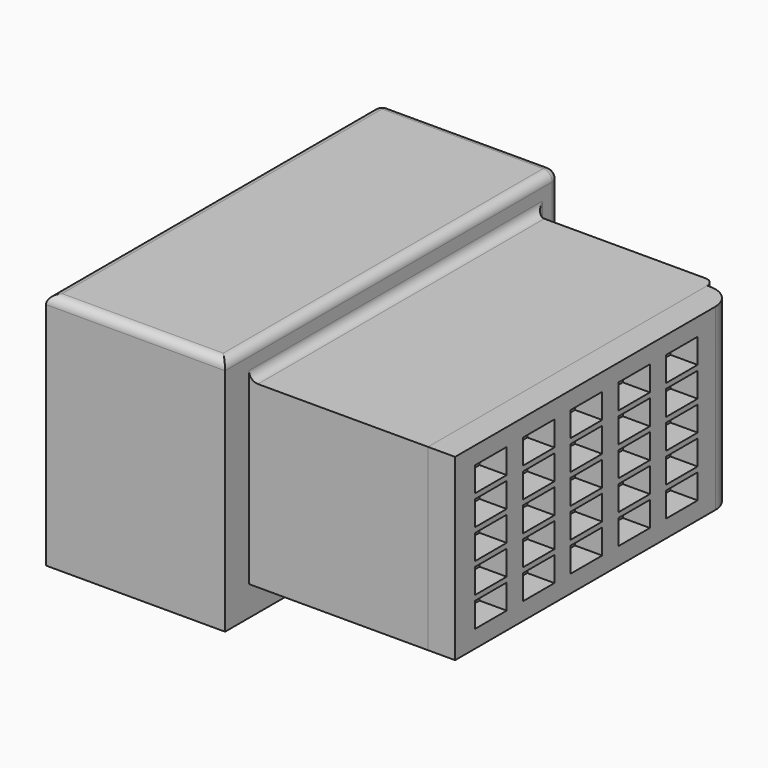
from build123d import *

# Parameters (mm, degrees)
F0_W     = 3048
F0_H     = 3048
F1_DEPTH = 1524
F2_W     = 3556
F2_H     = 2032
F2_W_2   = 3048
F2_H_2   = 1524
F3_DEPTH = 1524
F4_R     = 76.2
F5_W     = 2971.8
F5_H     = 1524
F5_W_2   = 336.062908
F5_H_2   = 210.914134
F6_DEPTH = 230.886
F7_R     = 203.2


with BuildPart() as f1:
    # F0 (on Top) → F1 (new body)
    with BuildSketch(Plane.XY):
        Rectangle(F0_W, F0_H)
    extrude(amount=F1_DEPTH)

    # F2 (on face) → F3 (join)
    with BuildSketch(Plane(origin=(-1524, 0, 0), x_dir=(0, -1, 0), z_dir=(-1, 0, 0))):
        with Locations((0, 762)):
            Rectangle(F2_W, F2_H)
        with Locations((0, 762)):
            Rectangle(F2_W_2, F2_H_2, mode=Mode.SUBTRACT)
    extrude(amount=-F3_DEPTH)

    # F4
    f4_edges = [f1.edges().sort_by_distance(p)[0] for p in [
        (1524, 1524, 762),
        (0, 1524, 762),
        (0, 1778, 762),
        (-1524, 1778, 762),
        (0, 0, 1778),
        (0, 0, 1524),
        (-762, -1778, 1778),
        (-762, 1778, 1778),
        (-1524, 0, 1778),
    ]]
    fillet(f4_edges, radius=F4_R)


with BuildPart() as f6:
    # F5 (on face) → F6 (new body)
    with BuildSketch(Plane.YZ.offset(1524)):
        with Locations((-38.1, 762)):
            Rectangle(F5_W, F5_H)
        with Locations((-1143, 254)):
            Rectangle(F5_W_2, F5_H_2, mode=Mode.SUBTRACT)
        with Locations((-635, 254)):
            Rectangle(F5_W_2, F5_H_2, mode=Mode.SUBTRACT)
        with Locations((-127, 254)):
            Rectangle(F5_W_2, F5_H_2, mode=Mode.SUBTRACT)
        with Locations((-1143, 508)):
            Rectangle(F5_W_2, F5_H_2, mode=Mode.SUBTRACT)
        with Locations((-635, 508)):
            Rectangle(F5_W_2, F5_H_2, mode=Mode.SUBTRACT)
        with Locations((-127, 508)):
            Rectangle(F5_W_2, F5_H_2, mode=Mode.SUBTRACT)
        with Locations((381, 254)):
            Rectangle(F5_W_2, F5_H_2, mode=Mode.SUBTRACT)
        with Locations((889, 254)):
            Rectangle(F5_W_2, F5_H_2, mode=Mode.SUBTRACT)
        with Locations((381, 508)):
            Rectangle(F5_W_2, F5_H_2, mode=Mode.SUBTRACT)
        with Locations((889, 508)):
            Rectangle(F5_W_2, F5_H_2, mode=Mode.SUBTRACT)
        with Locations((-1143, 762)):
            Rectangle(F5_W_2, F5_H_2, mode=Mode.SUBTRACT)
        with Locations((-1143, 1016)):
            Rectangle(F5_W_2, F5_H_2, mode=Mode.SUBTRACT)
        with Locations((-635, 762)):
            Rectangle(F5_W_2, F5_H_2, mode=Mode.SUBTRACT)
        with Locations((-127, 762)):
            Rectangle(F5_W_2, F5_H_2, mode=Mode.SUBTRACT)
        with Locations((-635, 1016)):
            Rectangle(F5_W_2, F5_H_2, mode=Mode.SUBTRACT)
        with Locations((-127, 1016)):
            Rectangle(F5_W_2, F5_H_2, mode=Mode.SUBTRACT)
        with Locations((-1143, 1270)):
            Rectangle(F5_W_2, F5_H_2, mode=Mode.SUBTRACT)
        with Locations((-635, 1270)):
            Rectangle(F5_W_2, F5_H_2, mode=Mode.SUBTRACT)
        with Locations((-127, 1270)):
            Rectangle(F5_W_2, F5_H_2, mode=Mode.SUBTRACT)
        with Locations((381, 762)):
            Rectangle(F5_W_2, F5_H_2, mode=Mode.SUBTRACT)
        with Locations((381, 1016)):
            Rectangle(F5_W_2, F5_H_2, mode=Mode.SUBTRACT)
        with Locations((889, 762)):
            Rectangle(F5_W_2, F5_H_2, mode=Mode.SUBTRACT)
        with Locations((889, 1016)):
            Rectangle(F5_W_2, F5_H_2, mode=Mode.SUBTRACT)
        with Locations((381, 1270)):
            Rectangle(F5_W_2, F5_H_2, mode=Mode.SUBTRACT)
        with Locations((889, 1270)):
            Rectangle(F5_W_2, F5_H_2, mode=Mode.SUBTRACT)
    extrude(amount=F6_DEPTH)

    # F7
    f7_edges = [f6.edges().sort_by_distance(p)[0] for p in [
        (1754.886, 1447.8, 762),
    ]]
    fillet(f7_edges, radius=F7_R)


solid = Compound([f1.part, f6.part])
